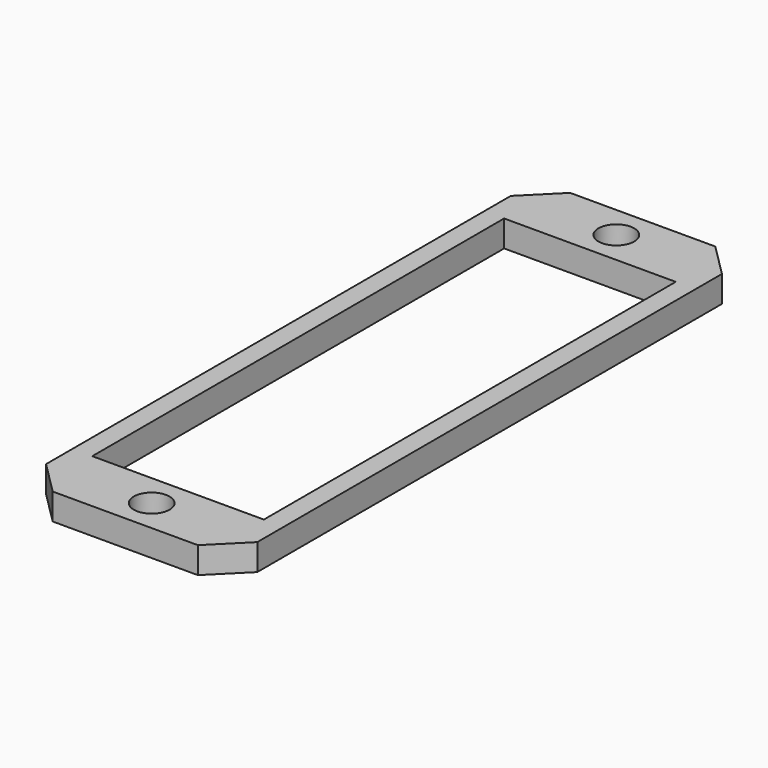
from build123d import *

# Parameters (mm, degrees)
F0_W     = 25.4
F0_H     = 77.787526
F0_R     = 2.15265
F0_W_2   = 20.6375
F0_H_2   = 61.912526
F1_DEPTH = 3.175
F2_SIZE  = 3.96875


with BuildPart() as f1:
    # F0 (on Top) → F1 (new body)
    with BuildSketch(Plane.XY):
        Rectangle(F0_W, F0_H)
        with Locations((0, -34.925013)):
            Circle(F0_R, mode=Mode.SUBTRACT)
        Rectangle(F0_W_2, F0_H_2, mode=Mode.SUBTRACT)
        with Locations((0, 34.925013)):
            Circle(F0_R, mode=Mode.SUBTRACT)
    extrude(amount=F1_DEPTH)

    # F2
    f2_edges = [f1.edges().sort_by_distance(p)[0] for p in [
        (-12.7, -38.893763, 1.5875),
        (12.7, -38.893763, 1.5875),
        (12.7, 38.893763, 1.5875),
        (-12.7, 38.893763, 1.5875),
    ]]
    chamfer(f2_edges, length=F2_SIZE)


solid = f1.part
